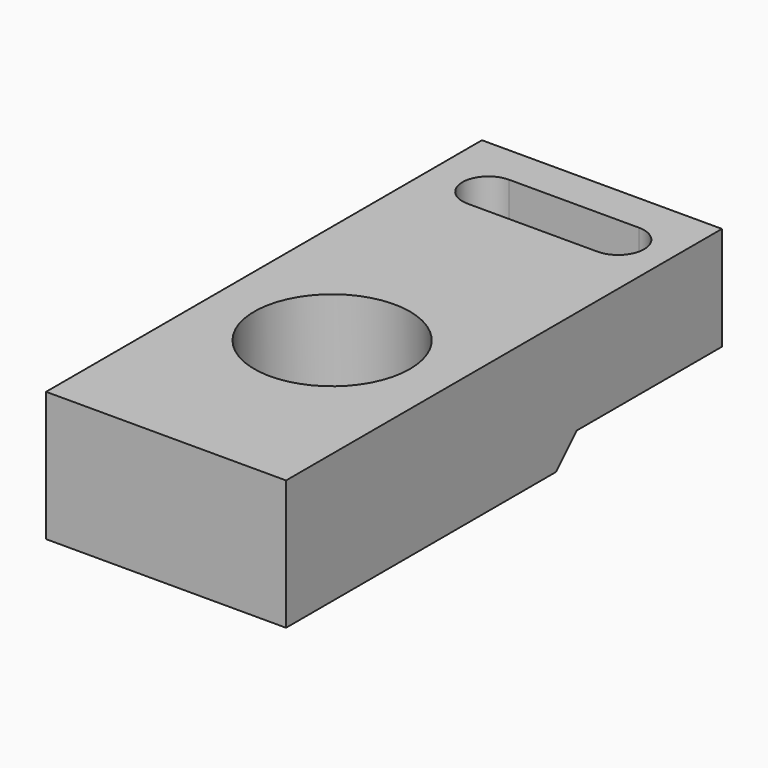
from build123d import *

# Parameters (mm, degrees)
SKETCH011_W     = 9.25
SKETCH011_H     = 21
SKETCH011_R     = 3
PAD006_DEPTH    = 5
SKETCH021_W     = 9.25
SKETCH021_H     = 7
POCKET006_DEPTH = 1
CHAMFER_SIZE    = 0.99


with BuildPart() as part:
    # Sketch011 → Pad006 (new body)
    with BuildSketch(Plane(origin=(16, -15, -11.5), x_dir=(1, 0, 0), z_dir=(0, 0, 1))):
        with Locations((0, 2.5)):
            Rectangle(SKETCH011_W, SKETCH011_H)
        Circle(SKETCH011_R, mode=Mode.SUBTRACT)
        with BuildLine():
            ThreePointArc((-2.375, 11.5), (-3.375, 10.5), (-2.375, 9.5))
            Line((-2.375, 9.5), (2.625, 9.5))
            ThreePointArc((2.625, 9.5), (3.625, 10.5), (2.625, 11.5))
            Line((-2.375, 11.5), (2.625, 11.5))
        make_face(mode=Mode.SUBTRACT)
    extrude(amount=-PAD006_DEPTH)

    # Sketch021 → Pocket006 (cut)
    with BuildSketch(Plane(origin=(16, -15, -16.5), x_dir=(1, 0, 0), z_dir=(0, 0, -1))):
        with Locations((0, -9.5)):
            Rectangle(SKETCH021_W, SKETCH021_H)
    extrude(amount=-POCKET006_DEPTH, mode=Mode.SUBTRACT)

    # Chamfer
    chamfer_edges = [part.edges().sort_by_distance(p)[0] for p in [
        (16, -9, -16.5),
    ]]
    chamfer(chamfer_edges, length=CHAMFER_SIZE)


solid = part.part
